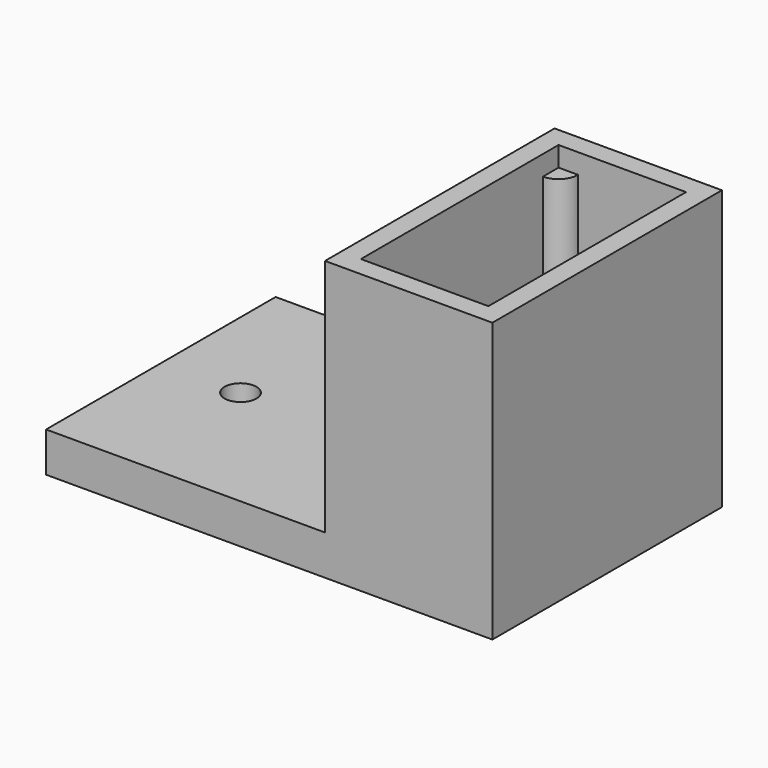
from build123d import *

# Parameters (mm, degrees)
SKETCH_W        = 56
SKETCH_H        = 36
PAD_DEPTH       = 5
SKETCH001_W     = 21
SKETCH001_H     = 36
PAD001_DEPTH    = 30
SKETCH002_W     = 16
SKETCH002_H     = 31
POCKET_DEPTH    = 33
SKETCH003_R     = 2.45
PAD002_DEPTH    = 30.5
SKETCH004_W     = 3.5
SKETCH004_H     = 6.5
POCKET001_DEPTH = 2
SKETCH005_R     = 2
POCKET002_DEPTH = 5


with BuildPart() as part:
    # Sketch → Pad (new body)
    with BuildSketch(Plane.XY):
        with Locations((28, 18)):
            Rectangle(SKETCH_W, SKETCH_H)
    extrude(amount=PAD_DEPTH)

    # Sketch001 (on Face6 of Pad) → Pad001 (join)
    with BuildSketch(Plane.XY.offset(5)):
        with Locations((45.5, 18)):
            Rectangle(SKETCH001_W, SKETCH001_H)
    extrude(amount=PAD001_DEPTH)

    # Sketch002 (on Face10 of Pad001) → Pocket (cut)
    with BuildSketch(Plane.XY.offset(35)):
        with Locations((45.5, 18)):
            Rectangle(SKETCH002_W, SKETCH002_H)
    extrude(amount=-POCKET_DEPTH, mode=Mode.SUBTRACT)

    # Sketch003 (on Face16 of Pocket) → Pad002 (join)
    with BuildSketch(Plane.XY.offset(2)):
        with Locations((37.5, 33.5)):
            Circle(SKETCH003_R)
        with Locations((53.5, 33.5)):
            Circle(SKETCH003_R)
        with Locations((37.5, 2.5)):
            Circle(SKETCH003_R)
        with Locations((53.5, 2.5)):
            Circle(SKETCH003_R)
    extrude(amount=PAD002_DEPTH)

    # Sketch004 (on Face18 of Pad002) → Pocket001 (cut)
    with BuildSketch(Plane.XY.offset(2)):
        with Locations((45.513299, 17.941233)):
            Rectangle(SKETCH004_W, SKETCH004_H)
    extrude(amount=-POCKET001_DEPTH, mode=Mode.SUBTRACT)

    # Sketch005 (on Face5 of Pocket001) → Pocket002 (cut)
    with BuildSketch(Plane.XY.offset(5)):
        with Locations((10, 18)):
            Circle(SKETCH005_R)
    extrude(amount=-POCKET002_DEPTH, mode=Mode.SUBTRACT)


solid = part.part
